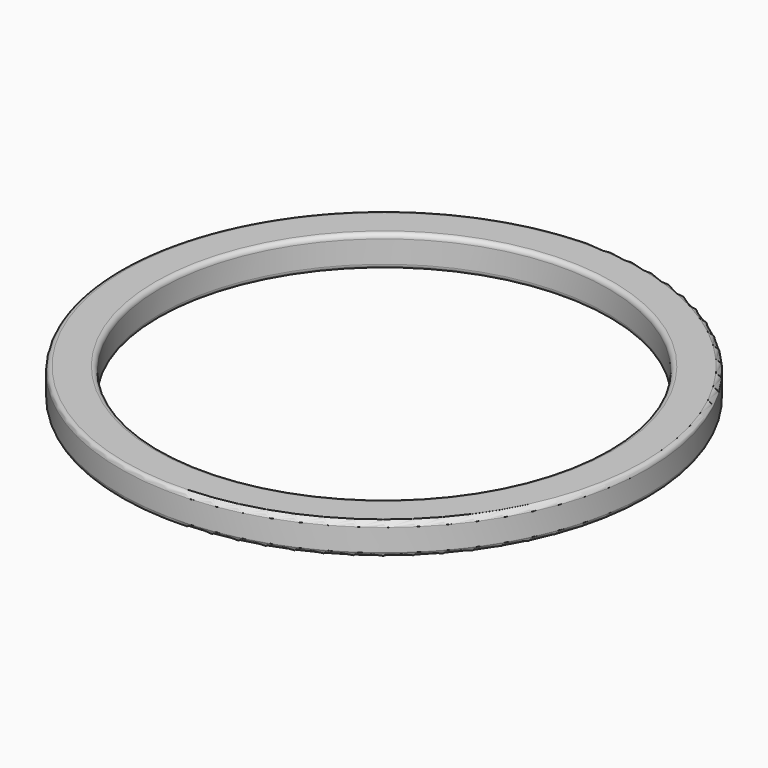
from build123d import *

# Parameters (mm, degrees)
SKETCH005_R           = 56.8
SKETCH005_R_2         = 48.2
PAD004_DEPTH          = 6.8
POCKET_DEPTH          = 5
POLARPATTERN003_COUNT = 21
FILLET001_R           = 1


with BuildPart() as part:
    # Sketch005 → Pad004 (new body)
    with BuildSketch(Plane.XY):
        Circle(SKETCH005_R)
        Circle(SKETCH005_R_2, mode=Mode.SUBTRACT)
    extrude(amount=PAD004_DEPTH)

    # Sketch006 (on Face3 of Pad004) → Pocket (cut)
    with BuildSketch(Plane(origin=(0, 0, 0), x_dir=(1, 0, 0), z_dir=(0, 0, -1))):
        with BuildLine():
            ThreePointArc((-50, 5.05), (-55.05, 0), (-50, -5.05))
            ThreePointArc((-50, -5.05), (-49.45, -4.5), (-50, -3.95))
            ThreePointArc((-50, 3.95), (-53.95, 0), (-50, -3.95))
            ThreePointArc((-50, 3.95), (-49.45, 4.5), (-50, 5.05))
        make_face()
    pocket = extrude(amount=-POCKET_DEPTH, mode=Mode.SUBTRACT)

    # PolarPattern003: Pocket ×21 about axis
    polarpattern003_axis = Axis((0, 0, 0), (0, 0, -1))
    for i in range(1, POLARPATTERN003_COUNT):
        add(pocket.rotate(polarpattern003_axis, i * 360 / POLARPATTERN003_COUNT), mode=Mode.SUBTRACT)

    # Fillet001
    fillet001_edges = [part.edges().sort_by_distance(p)[0] for p in [
        (56.8, 0, 3.4),
        (-56.8, 0, 0),
        (-56.8, 0, 6.8),
        (48.2, 0, 3.4),
        (-48.2, 0, 0),
        (-48.2, 0, 6.8),
    ]]
    fillet(fillet001_edges, radius=FILLET001_R)


with BuildPart() as part_1:
    # Body003 placement: moved
    add(part.part.moved(Location((0, 0, 91))))


solid = part_1.part
